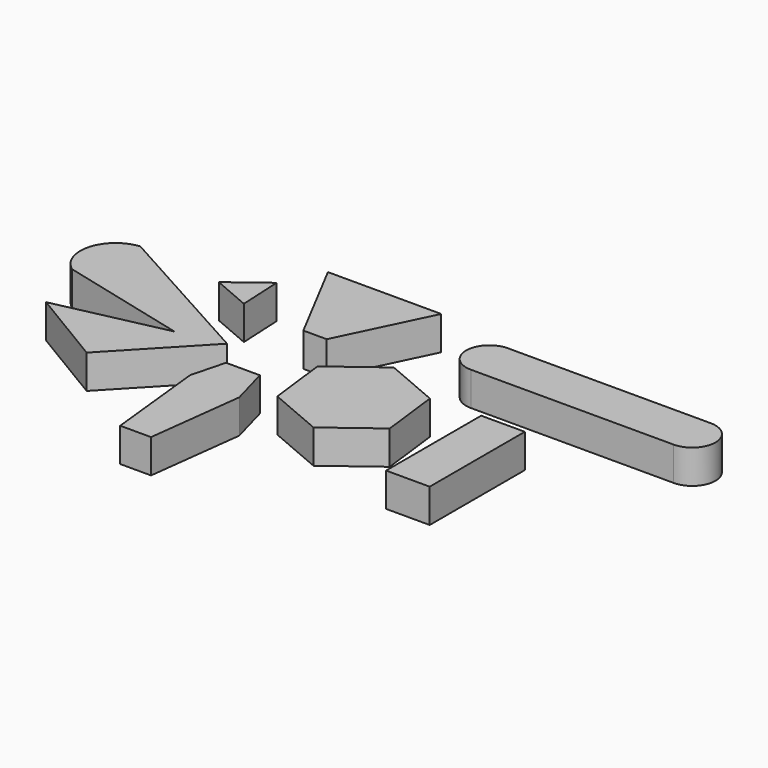
from build123d import *

# Parameters (mm, degrees)
PAD_DEPTH    = 10
PAD001_DEPTH = 10
PAD002_DEPTH = 10
PAD004_DEPTH = 10
PAD003_DEPTH = 10
SKETCH005_W  = 12.924907
SKETCH005_H  = 35.220361
PAD005_DEPTH = 10
PAD006_DEPTH = 10


with BuildPart() as body:
    # Sketch → Pad (new body)
    with BuildSketch(Plane.XY):
        with BuildLine():
            ThreePointArc((-58.408873, 37.550903), (-67.483346, 29.970562), (-63.651543, 18.784637))
            Line((-63.651543, 18.784637), (-25.594664, 9.179181))
            Line((-25.594664, 9.179181), (-57.980099, 2.108736))
            Line((-34.866428, -11.760233), (-57.980099, 2.108736))
            Line((-12.297852, 12.027573), (-34.866428, -11.760233))
            Line((-58.408873, 37.550903), (-12.297852, 12.027573))
        make_face()
    extrude(amount=PAD_DEPTH)


with BuildPart() as body001:
    # Sketch001 → Pad001 (new body)
    with BuildSketch(Plane.XY):
        Polygon((43.629059, 2.35548), (41.509199, 19.889299), (25.264536, 26.820356), (11.139733, 16.217594), (13.259593, -1.316225), (29.504256, -8.247282), align=None)
    extrude(amount=PAD001_DEPTH)


with BuildPart() as body002:
    # Sketch002 → Pad002 (new body)
    with BuildSketch(Plane.XY):
        Polygon((-16.486094, 54.606373), (-2.623984, 28.181721), (4.307071, 28.181721), (17.08622, 54.606373), align=None)
    extrude(amount=PAD002_DEPTH)


with BuildPart() as body003:
    # Sketch004 → Pad004 (new body)
    with BuildSketch(Plane.XY):
        Polygon((-6.515382, 4.415754), (3.50262, 4.415754), (6.696762, -7.199317), (3.212241, -35.511051), (-5.934626, -35.511051), (-9.128774, -5.602243), align=None)
    extrude(amount=PAD004_DEPTH)


with BuildPart() as body004:
    # Sketch003 → Pad003 (new body)
    with BuildSketch(Plane.XY):
        with BuildLine():
            ThreePointArc((39.867291, 50.824239), (32.998878, 43.955826), (39.867291, 37.087413))
            Line((39.867291, 37.087413), (99.975288, 37.087413))
            ThreePointArc((99.975288, 37.087413), (106.843701, 43.955826), (99.975288, 50.824239))
            Line((39.867291, 50.824239), (99.975288, 50.824239))
        make_face()
    extrude(amount=PAD003_DEPTH)


with BuildPart() as body005:
    # Sketch005 → Pad005 (new body)
    with BuildSketch(Plane.XY):
        with Locations((62.595759, 2.979997)):
            Rectangle(SKETCH005_W, SKETCH005_H)
    extrude(amount=PAD005_DEPTH)


with BuildPart() as body006:
    # Sketch006 → Pad006 (new body)
    with BuildSketch(Plane.XY):
        Polygon((-33.063084, 34.91983), (-22.400038, 42.997898), (-21.753803, 30.072998), align=None)
    extrude(amount=PAD006_DEPTH)


solid = Compound([body.part, body001.part, body002.part, body003.part, body004.part, body005.part, body006.part])
